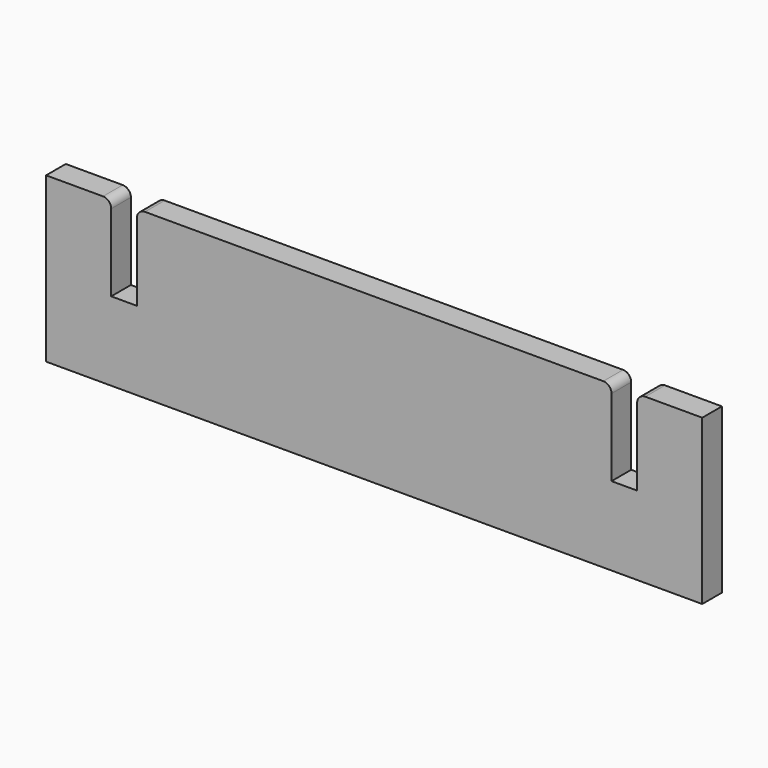
from build123d import *

# Parameters (mm, degrees)
F1_DEPTH = 9.525


with BuildPart() as f1:
    # F0 (on Front) → F1 (new body)
    with BuildSketch(Plane.XZ):
        with BuildLine():
            Line((-88.93515, 0), (-110.96965, 0))
            Line((-110.96965, 0), (-110.96965, -63.5))
            Line((-110.96965, -63.5), (143.03035, -63.5))
            Line((143.03035, -63.5), (143.03035, 0))
            Line((143.03035, 0), (120.99585, 0))
            ThreePointArc((120.99585, 0), (118.750786, -0.929936), (117.82085, -3.175))
            Line((117.82085, -3.175), (117.82085, -33.038741))
            Line((117.82085, -33.038741), (107.91485, -33.038741))
            Line((107.91485, -33.038741), (107.91485, -3.175))
            ThreePointArc((107.91485, -3.175), (106.984914, -0.929936), (104.73985, 0))
            Line((104.73985, 0), (-72.67915, 0))
            ThreePointArc((-72.67915, 0), (-74.924214, -0.929936), (-75.85415, -3.175))
            Line((-75.85415, -3.175), (-75.85415, -33.038741))
            Line((-75.85415, -33.038741), (-85.76015, -33.038741))
            Line((-85.76015, -33.038741), (-85.76015, -3.175))
            ThreePointArc((-85.76015, -3.175), (-86.690086, -0.929936), (-88.93515, 0))
        make_face()
    extrude(amount=F1_DEPTH)


solid = f1.part
